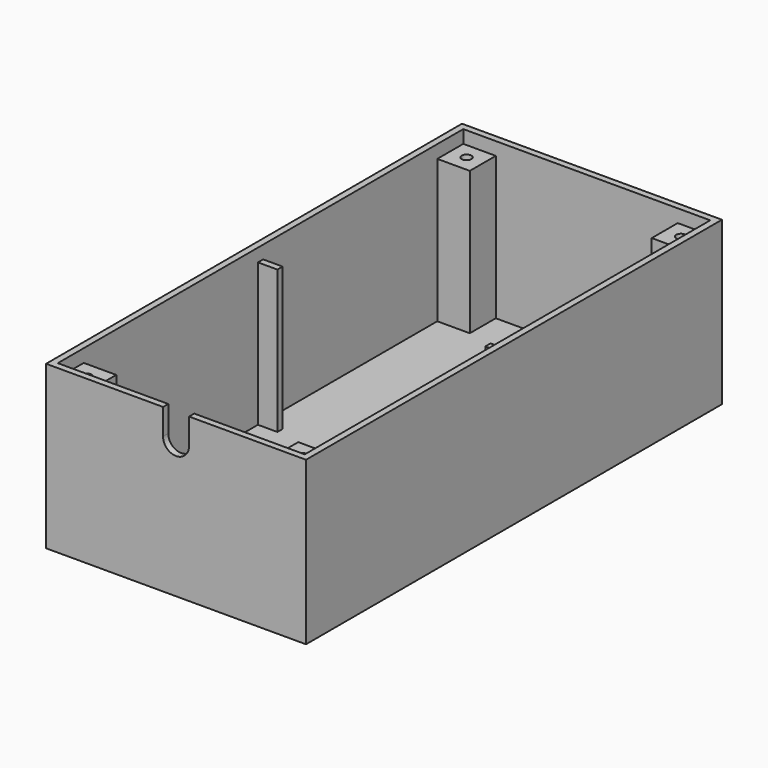
from build123d import *

# Parameters (mm, degrees)
F0_W     = 40
F0_H     = 80
F1_DEPTH = 25
F2_T     = -1
F3_W     = 5
F3_H     = 5
F3_R     = 0.75
F3_W_2   = 3
F3_H_2   = 1
F4_DEPTH = 22
F6_DEPTH = 25


with BuildPart() as f1:
    # F0 (on Top) → F1 (new body)
    with BuildSketch(Plane.XY):
        Rectangle(F0_W, F0_H)
    extrude(amount=F1_DEPTH)

    # F2
    f2_openings = [f1.faces().sort_by_distance(p)[0] for p in [
        (0, 0, 25),
    ]]
    offset(amount=F2_T, openings=f2_openings)

    # F3 (on face) → F4 (join)
    with BuildSketch(Plane.XY.offset(1)):
        with Locations((-16.5, 36.5)):
            Rectangle(F3_W, F3_H)
        with Locations((-16.5, 36.5)):
            Circle(F3_R, mode=Mode.SUBTRACT)
        with Locations((-16.5, -36.5)):
            Rectangle(F3_W, F3_H)
        with Locations((-16.5, -36.5)):
            Circle(F3_R, mode=Mode.SUBTRACT)
        with Locations((16.5, 36.5)):
            Rectangle(F3_W, F3_H)
        with Locations((16.5, 36.5)):
            Circle(F3_R, mode=Mode.SUBTRACT)
        with Locations((16.5, -36.5)):
            Rectangle(F3_W, F3_H)
        with Locations((16.5, -36.5)):
            Circle(F3_R, mode=Mode.SUBTRACT)
        with Locations((-17.5, 0)):
            Rectangle(F3_W_2, F3_H_2)
        with Locations((17.5, 0)):
            Rectangle(F3_W_2, F3_H_2)
    extrude(amount=F4_DEPTH)

    # F5 (on face) → F6 (cut)
    with BuildSketch(Plane.XZ.offset(40)):
        with BuildLine():
            Line((2, 25), (-2, 25))
            Line((-2, 25), (-2, 21))
            ThreePointArc((-2, 21), (0, 19), (2, 21))
            Line((2, 21), (2, 25))
        make_face()
    extrude(amount=-F6_DEPTH, mode=Mode.SUBTRACT)


solid = f1.part
